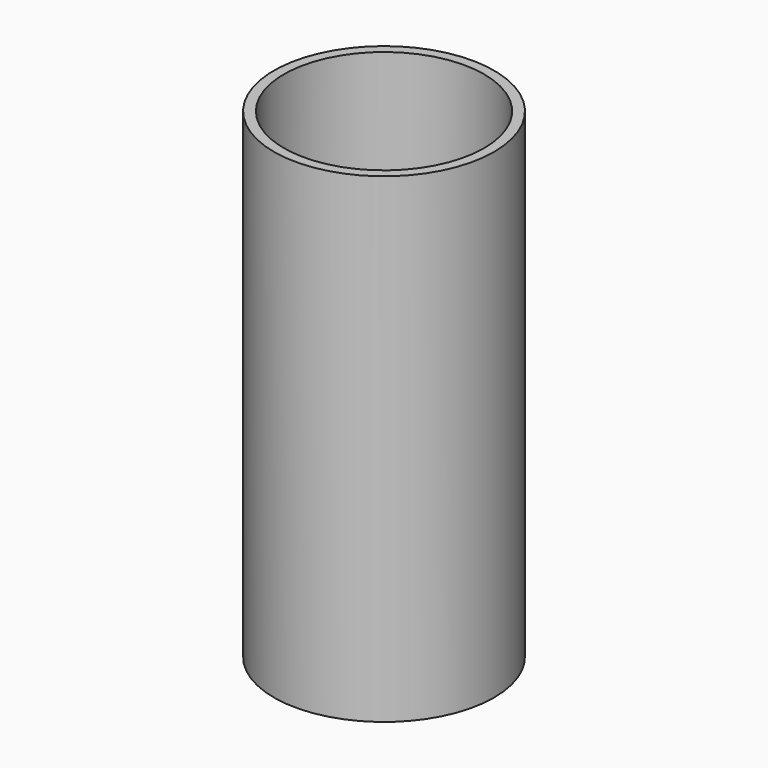
from build123d import *

# Parameters (mm, degrees)
F0_R     = 27.5
F1_DEPTH = 120
F2_T     = -2.5
F3_W     = 10.565266
F3_H     = 9.187184
F4_DEPTH = 27.501


with BuildPart() as f1:
    # F0 (on Top) → F1 (new body)
    with BuildSketch(Plane.XY):
        Circle(F0_R)
    extrude(amount=F1_DEPTH)

    # F2
    f2_openings = [f1.faces().sort_by_distance(p)[0] for p in [
        (0, 0, 120),
    ]]
    offset(amount=F2_T, openings=f2_openings)

    # F3 (on Right) → F4 (cut, through all)
    with BuildSketch(Plane.YZ):
        with Locations((2e-06, 40.653296)):
            Rectangle(F3_W, F3_H)
    extrude(amount=-F4_DEPTH, mode=Mode.SUBTRACT)


solid = f1.part
